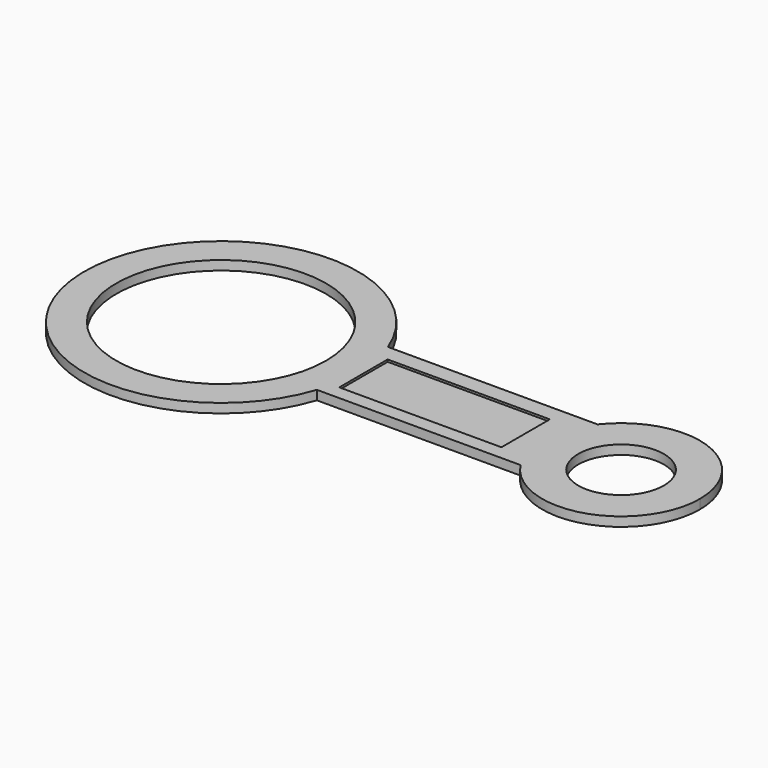
from build123d import *

# Parameters (mm, degrees)
F0_R     = 37.325038
F0_R_2   = 15.242526
F1_DEPTH = 3.302
F2_W     = 57.716969
F2_H     = 21.523166
F3_DEPTH = 0.762


with BuildPart() as f1:
    # F0 (on Top) → F1 (new body)
    with BuildSketch(Plane.XY):
        with BuildLine():
            ThreePointArc((46.255637, -15.242526), (48.086779, -7.718824), (48.702347, 0))
            ThreePointArc((48.702347, 0), (47.907371, 8.763695), (45.548398, 17.241288))
            ThreePointArc((45.548398, 17.241288), (-48.690808, -1.060099), (46.255637, -15.242526))
        make_face()
        Circle(F0_R, mode=Mode.SUBTRACT)
        with BuildLine():
            ThreePointArc((45.548398, 17.241288), (47.907371, 8.763695), (48.702347, 0))
            ThreePointArc((48.702347, 0), (48.086779, -7.718824), (46.255637, -15.242526))
            Line((46.255637, -15.242526), (118.749131, -15.242526))
            ThreePointArc((118.749131, -15.242526), (114.277353, 1.225872), (120.168991, 17.241288))
            Line((120.168991, 17.241288), (45.548398, 17.241288))
        make_face()
        with BuildLine():
            ThreePointArc((170.395609, 0), (151.437499, 26.551719), (120.168991, 17.241288))
            ThreePointArc((120.168991, 17.241288), (114.277353, 1.225872), (118.749131, -15.242526))
            ThreePointArc((118.749131, -15.242526), (150.269343, -26.9244), (170.395609, 0))
        make_face()
        with Locations((142.323092, 0)):
            Circle(F0_R_2, mode=Mode.SUBTRACT)
    extrude(amount=F1_DEPTH)

    # F2 (on face) → F3 (cut)
    with BuildSketch(Plane.XY.offset(3.302)):
        with Locations((79.058898, 0.566088)):
            Rectangle(F2_W, F2_H)
    extrude(amount=-F3_DEPTH, mode=Mode.SUBTRACT)


solid = f1.part
